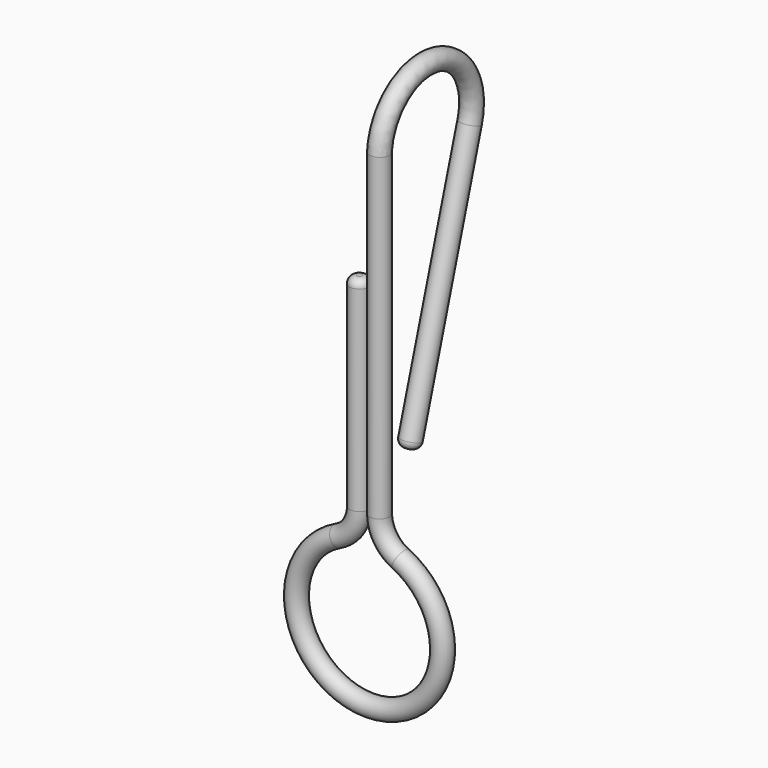
from build123d import *

# Parameters (mm, degrees)
F4_R = 1.7
F6_R = 1.27


with BuildPart() as f5:
    # F5: sweep along a path in F0, F2
    with BuildLine(Plane.XZ) as f5_path:
        Line((-1.75, 52.5788512989), (-1.75, 17.2421721369))
        ThreePointArc((-1.75, 17.2421721369), (-2.7396128871, 13.8379468213), (-5.4, 11.4947814246))
        ThreePointArc((-5.4, 11.4947814246), (0, -12.7), (5.4, 11.4947814246))
        ThreePointArc((5.4, 11.4947814246), (2.7396128871, 13.8379468213), (1.75, 17.2421721369))
        Line((1.75, 17.2421721369), (1.75, 72.5788512989))
    with BuildLine(Plane.YZ.offset(1.75)) as f5_path_2:
        ThreePointArc((0, 72.5788512989), (11.7031949702, 81.8585572335), (19.5705014858, 69.1627625387))
        Line((19.5705014858, 69.1627625387), (6.360641215, 24.6452912688))
    # F4 (on plane+point) → F5 (sweep)
    with BuildSketch(Plane.XY.offset(52.5788512989)):
        with Locations((-1.75, 0)):
            Circle(F4_R)
    sweep(path=f5_path.line + f5_path_2.line, transition=Transition.RIGHT)

    # F6
    f6_edges = [f5.edges().sort_by_distance(p)[0] for p in [
        (3.45, 6.360641, 24.645291),
        (-3.45, 0, 52.578851),
    ]]
    fillet(f6_edges, radius=F6_R)


solid = f5.part
